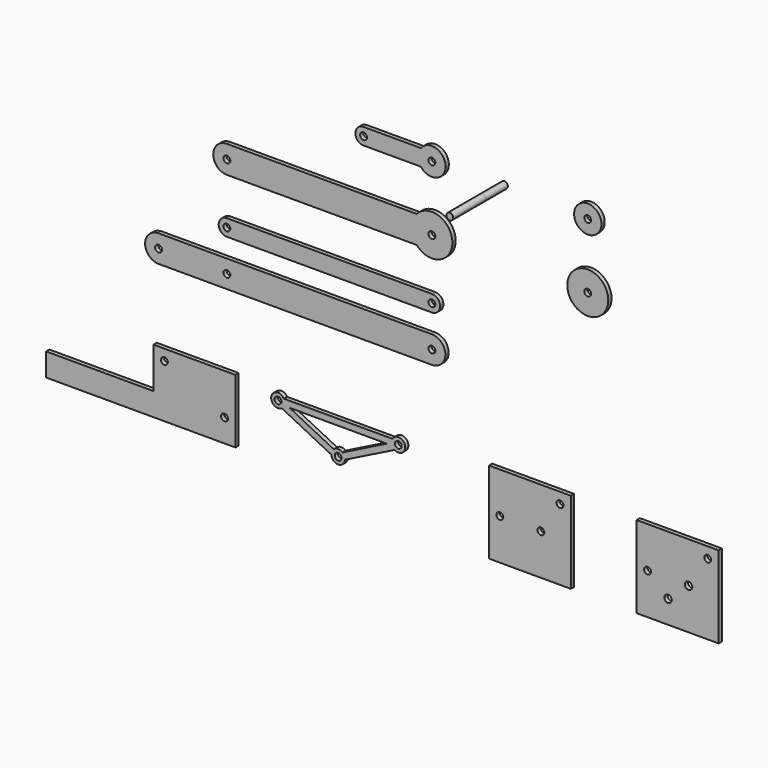
from build123d import *

# Parameters (mm, degrees)
F0_R     = 15
F0_R_2   = 2.5
F0_R_3   = 10
F0_W     = 60
F0_H     = 60
F0_R_4   = 2.716976
F1_DEPTH = 3
F2_R     = 2.5
F3_DEPTH = 50
F4_DEPTH = 20


with BuildPart() as f1:
    # F0 (on Front) → F1 (new body)
    with BuildSketch(Plane.XZ):
        Circle(F0_R)
        Circle(F0_R_2, mode=Mode.SUBTRACT)
        with Locations((0, 47.440141)):
            Circle(F0_R_3)
        with Locations((0, 47.440141)):
            Circle(F0_R_2, mode=Mode.SUBTRACT)
        with BuildLine():
            Line((-164.044532, 41.440141), (-122.044532, 41.440141))
            ThreePointArc((-122.044532, 41.440141), (-104.044532, 47.440141), (-122.044532, 53.440141))
            Line((-122.044532, 53.440141), (-164.044532, 53.440141))
            ThreePointArc((-164.044532, 53.440141), (-170.044532, 47.440141), (-164.044532, 41.440141))
        make_face()
        with Locations((-164.044532, 47.440141)):
            Circle(F0_R_2, mode=Mode.SUBTRACT)
        with Locations((-114.044532, 47.440141)):
            Circle(F0_R_2, mode=Mode.SUBTRACT)
        with BuildLine():
            Line((-264.044532, -10), (-125.224872, -10))
            ThreePointArc((-125.224872, -10), (-99.044532, 0), (-125.224872, 10))
            Line((-125.224872, 10), (-264.044532, 10))
            ThreePointArc((-264.044532, 10), (-274.044532, 0), (-264.044532, -10))
        make_face()
        with Locations((-264.044532, 0)):
            Circle(F0_R_2, mode=Mode.SUBTRACT)
        with Locations((-114.044532, 0)):
            Circle(F0_R_2, mode=Mode.SUBTRACT)
        with BuildLine():
            ThreePointArc((-114.044532, -49.87488), (-120.044532, -43.87488), (-114.044532, -37.87488))
            Line((-114.044532, -37.87488), (-264.044532, -37.87488))
            ThreePointArc((-264.044532, -37.87488), (-259.801891, -39.632239), (-258.044532, -43.87488))
            ThreePointArc((-258.044532, -43.87488), (-259.801891, -48.117521), (-264.044532, -49.87488))
            Line((-264.044532, -49.87488), (-114.044532, -49.87488))
        make_face()
        with BuildLine():
            Line((-114.044532, -41.37488), (-114.044532, -37.87488))
            ThreePointArc((-114.044532, -37.87488), (-120.044532, -43.87488), (-114.044532, -49.87488))
            Line((-114.044532, -49.87488), (-114.044532, -46.37488))
            ThreePointArc((-114.044532, -46.37488), (-116.544532, -43.87488), (-114.044532, -41.37488))
        make_face()
        with BuildLine():
            ThreePointArc((-258.044532, -43.87488), (-259.801891, -39.632239), (-264.044532, -37.87488))
            Line((-264.044532, -37.87488), (-264.044532, -41.37488))
            ThreePointArc((-264.044532, -41.37488), (-262.276765, -42.107113), (-261.544532, -43.87488))
            ThreePointArc((-261.544532, -43.87488), (-262.276765, -45.642647), (-264.044532, -46.37488))
            Line((-264.044532, -46.37488), (-264.044532, -49.87488))
            ThreePointArc((-264.044532, -49.87488), (-259.801891, -48.117521), (-258.044532, -43.87488))
        make_face()
        with BuildLine():
            ThreePointArc((-264.044532, -83.594367), (-273.899843, -73.739055), (-264.044532, -63.883744))
            Line((-264.044532, -63.883744), (-314.044532, -63.883744))
            ThreePointArc((-314.044532, -63.883744), (-307.075774, -66.770298), (-304.189221, -73.739056))
            ThreePointArc((-304.189221, -73.739056), (-307.075774, -80.707813), (-314.044532, -83.594367))
            Line((-314.044532, -83.594367), (-264.044532, -83.594367))
        make_face()
        with BuildLine():
            ThreePointArc((-114.044532, -83.594367), (-123.899843, -73.739056), (-114.044532, -63.883744))
            Line((-114.044532, -63.883744), (-264.044532, -63.883744))
            ThreePointArc((-264.044532, -63.883744), (-257.075774, -66.770298), (-254.189221, -73.739056))
            ThreePointArc((-254.189221, -73.739056), (-257.075775, -80.707813), (-264.044532, -83.594367))
            Line((-264.044532, -83.594367), (-114.044532, -83.594367))
        make_face()
        with BuildLine():
            Line((-114.044532, -71.239056), (-114.044532, -63.883744))
            ThreePointArc((-114.044532, -63.883744), (-123.899843, -73.739056), (-114.044532, -83.594367))
            Line((-114.044532, -83.594367), (-114.044532, -76.239056))
            ThreePointArc((-114.044532, -76.239056), (-116.544532, -73.739056), (-114.044532, -71.239056))
        make_face()
        with BuildLine():
            ThreePointArc((-304.189221, -73.739056), (-307.075774, -66.770298), (-314.044532, -63.883744))
            Line((-314.044532, -63.883744), (-314.044532, -71.239056))
            ThreePointArc((-314.044532, -71.239056), (-312.276765, -71.971289), (-311.544532, -73.739056))
            ThreePointArc((-311.544532, -73.739056), (-312.276765, -75.506822), (-314.044532, -76.239056))
            Line((-314.044532, -76.239056), (-314.044532, -83.594367))
            ThreePointArc((-314.044532, -83.594367), (-307.075774, -80.707813), (-304.189221, -73.739056))
        make_face()
        Polygon((-396.343679, -183.563013), (-257.770899, -183.563013), (-257.770899, -163.850146), (-257.770899, -136.793513), (-317.770899, -136.793513), (-317.770899, -166.725997), (-396.343679, -166.725997), align=None)
        with Locations((-309.770899, -144.793513)):
            Circle(F0_R_2, mode=Mode.SUBTRACT)
        with Locations((-265.770899, -166.793513)):
            Circle(F0_R_2, mode=Mode.SUBTRACT)
        with BuildLine():
            ThreePointArc((-108.044532, -43.87488), (-109.801891, -39.632239), (-114.044532, -37.87488))
            Line((-114.044532, -37.87488), (-114.044532, -41.37488))
            ThreePointArc((-114.044532, -41.37488), (-112.276765, -42.107113), (-111.544532, -43.87488))
            ThreePointArc((-111.544532, -43.87488), (-112.276765, -45.642647), (-114.044532, -46.37488))
            Line((-114.044532, -46.37488), (-114.044532, -49.87488))
            ThreePointArc((-114.044532, -49.87488), (-109.801891, -48.117521), (-108.044532, -43.87488))
        make_face()
        with BuildLine():
            Line((-264.044532, -41.37488), (-264.044532, -37.87488))
            ThreePointArc((-264.044532, -37.87488), (-270.044532, -43.87488), (-264.044532, -49.87488))
            Line((-264.044532, -49.87488), (-264.044532, -46.37488))
            ThreePointArc((-264.044532, -46.37488), (-266.544532, -43.87488), (-264.044532, -41.37488))
        make_face()
        with BuildLine():
            ThreePointArc((-104.189221, -73.739056), (-107.075774, -66.770298), (-114.044532, -63.883744))
            Line((-114.044532, -63.883744), (-114.044532, -71.239056))
            ThreePointArc((-114.044532, -71.239056), (-112.276765, -71.971289), (-111.544532, -73.739056))
            ThreePointArc((-111.544532, -73.739056), (-112.276765, -75.506822), (-114.044532, -76.239056))
            Line((-114.044532, -76.239056), (-114.044532, -83.594367))
            ThreePointArc((-114.044532, -83.594367), (-107.075774, -80.707813), (-104.189221, -73.739056))
        make_face()
        with BuildLine():
            Line((-314.044532, -71.239056), (-314.044532, -63.883744))
            ThreePointArc((-314.044532, -63.883744), (-323.899843, -73.739056), (-314.044532, -83.594367))
            Line((-314.044532, -83.594367), (-314.044532, -76.239056))
            ThreePointArc((-314.044532, -76.239056), (-316.544532, -73.739056), (-314.044532, -71.239056))
        make_face()
        with BuildLine():
            ThreePointArc((-254.189221, -73.739056), (-257.075774, -66.770298), (-264.044532, -63.883744))
            ThreePointArc((-264.044532, -63.883744), (-273.899843, -73.739055), (-264.044532, -83.594367))
            ThreePointArc((-264.044532, -83.594367), (-257.075775, -80.707813), (-254.189221, -73.739056))
        make_face()
        with Locations((-264.044532, -73.739056)):
            Circle(F0_R_2, mode=Mode.SUBTRACT)
        with Locations((-42.320758, -164.823696)):
            Rectangle(F0_W, F0_H)
        with Locations((-64.320758, -164.823696)):
            Circle(F0_R_2, mode=Mode.SUBTRACT)
        with Locations((-34.320758, -164.823696)):
            Circle(F0_R_2, mode=Mode.SUBTRACT)
        with Locations((-20.320758, -142.823696)):
            Circle(F0_R_2, mode=Mode.SUBTRACT)
        with BuildLine():
            Line((-182.630017, -140.598533), (-222.29989, -140.598533))
            ThreePointArc((-222.29989, -140.598533), (-231.496262, -141.949769), (-223.875068, -147.271093))
            Line((-223.875068, -147.271093), (-187.621034, -165.398109))
            ThreePointArc((-187.621034, -165.398109), (-182.630017, -170.098533), (-177.639, -165.398109))
            Line((-177.639, -165.398109), (-141.384967, -147.271093))
            ThreePointArc((-141.384967, -147.271093), (-133.763772, -141.949769), (-142.960144, -140.598533))
            Line((-142.960144, -140.598533), (-182.630017, -140.598533))
        make_face()
        with Locations((-182.630017, -165.098533)):
            Circle(F0_R_2, mode=Mode.SUBTRACT)
        with Locations((-226.630017, -143.098533)):
            Circle(F0_R_2, mode=Mode.SUBTRACT)
        with BuildLine():
            Line((-185.83437, -161.260289), (-218.157881, -145.098533))
            Line((-218.157881, -145.098533), (-182.630017, -145.098533))
            Line((-182.630017, -145.098533), (-147.102153, -145.098533))
            Line((-147.102153, -145.098533), (-179.425664, -161.260289))
            ThreePointArc((-179.425664, -161.260289), (-182.630017, -160.098533), (-185.83437, -161.260289))
        make_face(mode=Mode.SUBTRACT)
        with Locations((-138.630017, -143.098533)):
            Circle(F0_R_2, mode=Mode.SUBTRACT)
        with Locations((65.764732, -164.823696)):
            Rectangle(F0_W, F0_H)
        with Locations((58.764732, -178.052453)):
            Circle(F0_R_4, mode=Mode.SUBTRACT)
        with Locations((43.764732, -164.823696)):
            Circle(F0_R_2, mode=Mode.SUBTRACT)
        with Locations((73.764732, -164.823696)):
            Circle(F0_R_4, mode=Mode.SUBTRACT)
        with Locations((87.764732, -142.823696)):
            Circle(F0_R_2, mode=Mode.SUBTRACT)
    extrude(amount=F1_DEPTH)


with BuildPart() as f3:
    # F2 (on Front) → F3 (new body)
    with BuildSketch(Plane.XZ):
        with Locations((-63.371047, 47.547303)):
            Circle(F2_R)
    extrude(amount=F3_DEPTH)


with BuildPart() as f4:
    # F2 (on Front) → F4 (new body)
    with BuildSketch(Plane.XZ):
        with Locations((-63.371047, 47.547303)):
            Circle(F2_R)
    extrude(amount=F4_DEPTH)


solid = Compound([f1.part, f3.part, f4.part])
